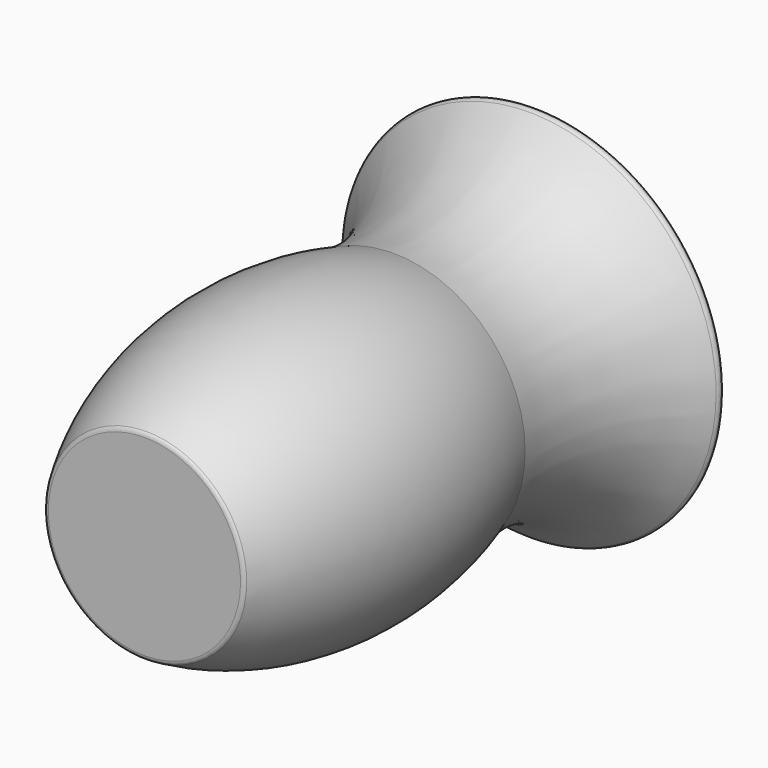
from build123d import *

# Parameters (mm, degrees)
F2_T = -2.54
F3_R = 0.508


with BuildPart() as f1:
    # F0 (on Top) → F1 (revolve)
    with BuildSketch(Plane.XY):
        with BuildLine():
            Line((0, 51.2063987553), (0, 0))
            Line((0, 0), (10.349294097, 0))
            ThreePointArc((10.349294097, 0), (15.5845497008, 15.9118304444), (13.7938205153, 32.5667858124))
            ThreePointArc((13.7938205153, 32.5667858124), (14.5581175705, 42.853567473), (20.6105746329, 51.2063987553))
            Line((20.6105746329, 51.2063987553), (0, 51.2063987553))
        make_face()
    revolve(axis=Axis((0, 25.6031993777, 0), (0, 1, 0)))

    # F2
    f2_openings = [f1.faces().sort_by_distance(p)[0] for p in [
        (0, 51.206399, 0),
    ]]
    offset(amount=F2_T, openings=f2_openings, kind=Kind.INTERSECTION)

    # F3
    f3_edges = [f1.edges().sort_by_distance(p)[0] for p in [
        (-20.610575, 51.206399, 0),
        (-16.838764, 51.206399, 0),
        (-10.349294, 0, 0),
    ]]
    fillet(f3_edges, radius=F3_R)


solid = f1.part
